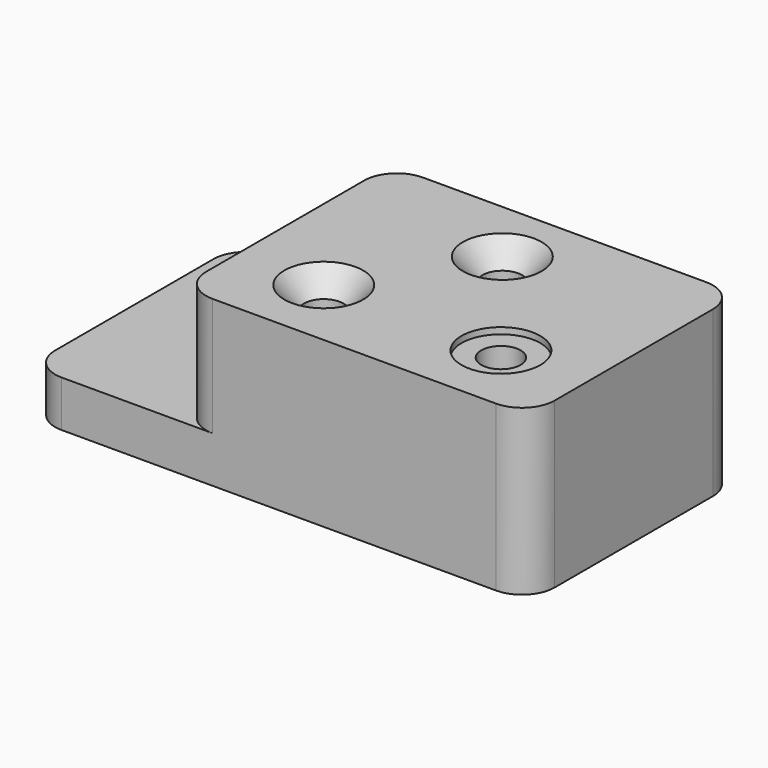
from build123d import *

# Parameters (mm, degrees)
F0_W           = 168.402
F0_H           = 127
F1_DEPTH       = 79.502
F0_W_2         = 72.898
F2_DEPTH       = 22.352
F3_R           = 15.748
F5_D           = 19.05
F5_START       = 57.15
F5_CBORE_D     = 38.1
F5_CBORE_DEPTH = 3.048
F6_D           = 19.05
F6_CSINK_D     = 38.1
F6_CSINK_ANGLE = 82


with BuildPart() as f1:
    # F0 (on Top) → F1 (new body)
    with BuildSketch(Plane.XY):
        with Locations((157.099, 63.5)):
            Rectangle(F0_W, F0_H)
    extrude(amount=F1_DEPTH)

    # F0 (on Top) → F2 (join)
    with BuildSketch(Plane.XY):
        with Locations((36.449, 63.5)):
            Rectangle(F0_W_2, F0_H)
    extrude(amount=F2_DEPTH)

    # F3
    f3_edges = [f1.edges().sort_by_distance(p)[0] for p in [
        (0, 0, 11.176),
        (72.898, 0, 50.927),
        (241.3, 0, 39.751),
        (72.898, 127, 50.927),
        (0, 127, 11.176),
        (241.3, 127, 39.751),
    ]]
    fillet(f3_edges, radius=F3_R)

    # F5 (through all)
    # its depths count from where the whole tool has entered the part; down to there all is cleared
    with Locations(Plane.XY.offset(79.502)):
        with Locations((199.898, 35.052, 0), (35.052, 95.25, -F5_START)):
            CounterBoreHole(F5_D / 2, F5_CBORE_D / 2, F5_CBORE_DEPTH)

    # F6 (through all)
    with Locations(Plane.XY.offset(79.502)):
        with Locations((152.4, 95.25), (114.3, 35.052)):
            CounterSinkHole(F6_D / 2, F6_CSINK_D / 2, counter_sink_angle=F6_CSINK_ANGLE)


solid = f1.part
